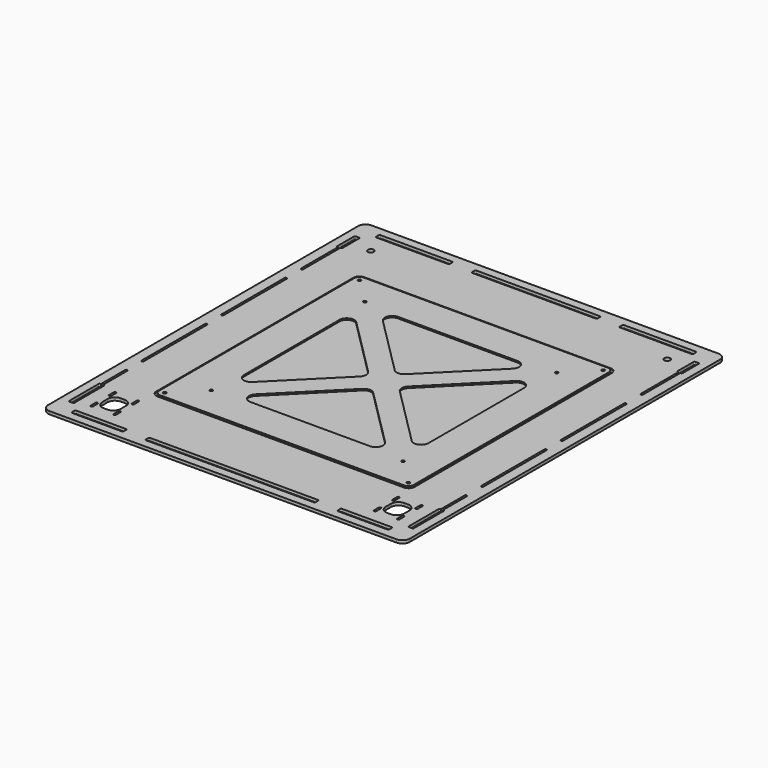
from build123d import *

# Parameters (mm, degrees)
F0_R     = 4
F1_DEPTH = 4
F0_R_2   = 2
F2_DEPTH = 3
F3_R     = 2
F4_DEPTH = 5


with BuildPart() as f1:
    # F0 (on Top) → F1 (new body)
    with BuildSketch(Plane.XY):
        with BuildLine():
            ThreePointArc((-235, 272.5), (-242.071068, 269.571068), (-245, 262.5))
            Line((-245, 262.5), (-245, -262.5))
            ThreePointArc((-245, -262.5), (-242.071068, -269.571068), (-235, -272.5))
            Line((-235, -272.5), (235, -272.5))
            ThreePointArc((235, -272.5), (242.071068, -269.571068), (245, -262.5))
            Line((245, -262.5), (245, 262.5))
            ThreePointArc((245, 262.5), (242.071068, 269.571068), (235, 272.5))
            Line((235, 272.5), (-235, 272.5))
        make_face()
        with BuildLine():
            Line((-209, -235.5), (-209, -227.5))
            ThreePointArc((-209, -227.5), (-208.56066, -226.43934), (-207.5, -226))
            Line((-207.5, -226), (-207.4, -226))
            ThreePointArc((-207.4, -226), (-206.33934, -226.43934), (-205.9, -227.5))
            Line((-205.9, -227.5), (-205.9, -235.5))
            ThreePointArc((-205.9, -235.5), (-206.33934, -236.56066), (-207.4, -237))
            Line((-207.4, -237), (-207.5, -237))
            ThreePointArc((-207.5, -237), (-208.56066, -236.56066), (-209, -235.5))
        make_face(mode=Mode.SUBTRACT)
        with BuildLine():
            ThreePointArc((-189.5, -202.5), (-182.428932, -205.428932), (-179.5, -212.5))
            Line((-179.5, -212.5), (-179.5, -221.5))
            ThreePointArc((-179.5, -221.5), (-182.428932, -228.571068), (-189.5, -231.5))
            Line((-189.5, -231.5), (-194.5, -231.5))
            ThreePointArc((-194.5, -231.5), (-201.571068, -228.571068), (-204.5, -221.5))
            Line((-204.5, -221.5), (-204.5, -212.5))
            ThreePointArc((-204.5, -212.5), (-201.571068, -205.428932), (-194.5, -202.5))
            Line((-194.5, -202.5), (-189.5, -202.5))
        make_face(mode=Mode.SUBTRACT)
        with BuildLine():
            Line((-146.5, -261), (-213.5, -261))
            ThreePointArc((-213.5, -261), (-214.56066, -260.56066), (-215, -259.5))
            Line((-215, -259.5), (-215, -255.5))
            ThreePointArc((-215, -255.5), (-214.56066, -254.43934), (-213.5, -254))
            Line((-213.5, -254), (-146.5, -254))
            ThreePointArc((-146.5, -254), (-145.43934, -254.43934), (-145, -255.5))
            Line((-145, -255.5), (-145, -259.5))
            ThreePointArc((-145, -259.5), (-145.43934, -260.56066), (-146.5, -261))
        make_face(mode=Mode.SUBTRACT)
        with BuildLine():
            Line((-178, -235.5), (-178, -227.5))
            ThreePointArc((-178, -227.5), (-177.56066, -226.43934), (-176.5, -226))
            Line((-176.5, -226), (-176.4, -226))
            ThreePointArc((-176.4, -226), (-175.33934, -226.43934), (-174.9, -227.5))
            Line((-174.9, -227.5), (-174.9, -235.5))
            ThreePointArc((-174.9, -235.5), (-175.33934, -236.56066), (-176.4, -237))
            Line((-176.4, -237), (-176.5, -237))
            ThreePointArc((-176.5, -237), (-177.56066, -236.56066), (-178, -235.5))
        make_face(mode=Mode.SUBTRACT)
        with BuildLine():
            Line((-233.5, -241), (-233.5, -191.645098))
            ThreePointArc((-233.5, -191.645098), (-233.06066, -190.584438), (-232, -190.145098))
            Line((-232, -190.145098), (-231.5, -190.145098))
            Line((-231.5, -190.145098), (-231.5, -149))
            ThreePointArc((-231.5, -149), (-231.06066, -147.93934), (-230, -147.5))
            ThreePointArc((-230, -147.5), (-228.93934, -147.93934), (-228.5, -149))
            Line((-228.5, -149), (-228.5, -190.145098))
            Line((-228.5, -190.145098), (-228, -190.145098))
            ThreePointArc((-228, -190.145098), (-226.93934, -190.584438), (-226.5, -191.645098))
            Line((-226.5, -191.645098), (-226.5, -241))
            ThreePointArc((-226.5, -241), (-226.93934, -242.06066), (-228, -242.5))
            Line((-228, -242.5), (-232, -242.5))
            ThreePointArc((-232, -242.5), (-233.06066, -242.06066), (-233.5, -241))
        make_face(mode=Mode.SUBTRACT)
        with BuildLine():
            ThreePointArc((-207.4, -195), (-206.33934, -195.43934), (-205.9, -196.5))
            Line((-205.9, -196.5), (-205.9, -204.5))
            ThreePointArc((-205.9, -204.5), (-206.33934, -205.56066), (-207.4, -206))
            Line((-207.4, -206), (-207.5, -206))
            ThreePointArc((-207.5, -206), (-208.56066, -205.56066), (-209, -204.5))
            Line((-209, -204.5), (-209, -196.5))
            ThreePointArc((-209, -196.5), (-208.56066, -195.43934), (-207.5, -195))
            Line((-207.5, -195), (-207.4, -195))
        make_face(mode=Mode.SUBTRACT)
        with BuildLine():
            ThreePointArc((-176.4, -195), (-175.33934, -195.43934), (-174.9, -196.5))
            Line((-174.9, -196.5), (-174.9, -204.5))
            ThreePointArc((-174.9, -204.5), (-175.33934, -205.56066), (-176.4, -206))
            Line((-176.4, -206), (-176.5, -206))
            ThreePointArc((-176.5, -206), (-177.56066, -205.56066), (-178, -204.5))
            Line((-178, -204.5), (-178, -196.5))
            ThreePointArc((-178, -196.5), (-177.56066, -195.43934), (-176.5, -195))
            Line((-176.5, -195), (-176.4, -195))
        make_face(mode=Mode.SUBTRACT)
        with BuildLine():
            ThreePointArc((-230, -12.5), (-228.93934, -12.93934), (-228.5, -14))
            Line((-228.5, -14), (-228.5, -121))
            ThreePointArc((-228.5, -121), (-228.93934, -122.06066), (-230, -122.5))
            ThreePointArc((-230, -122.5), (-231.06066, -122.06066), (-231.5, -121))
            Line((-231.5, -121), (-231.5, -14))
            ThreePointArc((-231.5, -14), (-231.06066, -12.93934), (-230, -12.5))
        make_face(mode=Mode.SUBTRACT)
        with BuildLine():
            ThreePointArc((113.5, -254), (114.56066, -254.43934), (115, -255.5))
            Line((115, -255.5), (115, -259.5))
            ThreePointArc((115, -259.5), (114.56066, -260.56066), (113.5, -261))
            Line((113.5, -261), (-113.5, -261))
            ThreePointArc((-113.5, -261), (-114.56066, -260.56066), (-115, -259.5))
            Line((-115, -259.5), (-115, -255.5))
            ThreePointArc((-115, -255.5), (-114.56066, -254.43934), (-113.5, -254))
            Line((-113.5, -254), (113.5, -254))
        make_face(mode=Mode.SUBTRACT)
        with BuildLine():
            ThreePointArc((145, -255.5), (145.43934, -254.43934), (146.5, -254))
            Line((146.5, -254), (213.5, -254))
            ThreePointArc((213.5, -254), (214.56066, -254.43934), (215, -255.5))
            Line((215, -255.5), (215, -259.5))
            ThreePointArc((215, -259.5), (214.56066, -260.56066), (213.5, -261))
            Line((213.5, -261), (146.5, -261))
            ThreePointArc((146.5, -261), (145.43934, -260.56066), (145, -259.5))
            Line((145, -259.5), (145, -255.5))
        make_face(mode=Mode.SUBTRACT)
        with BuildLine():
            ThreePointArc((176.5, -226), (177.56066, -226.43934), (178, -227.5))
            Line((178, -227.5), (178, -235.5))
            ThreePointArc((178, -235.5), (177.56066, -236.56066), (176.5, -237))
            Line((176.5, -237), (176.4, -237))
            ThreePointArc((176.4, -237), (175.33934, -236.56066), (174.9, -235.5))
            Line((174.9, -235.5), (174.9, -227.5))
            ThreePointArc((174.9, -227.5), (175.33934, -226.43934), (176.4, -226))
            Line((176.4, -226), (176.5, -226))
        make_face(mode=Mode.SUBTRACT)
        with BuildLine():
            Line((207.5, -236.570228), (207.4, -236.570228))
            ThreePointArc((207.4, -236.570228), (206.33934, -236.130888), (205.9, -235.070228))
            Line((205.9, -235.070228), (205.9, -227.070228))
            ThreePointArc((205.9, -227.070228), (206.33934, -226.009568), (207.4, -225.570228))
            Line((207.4, -225.570228), (207.5, -225.570228))
            ThreePointArc((207.5, -225.570228), (208.56066, -226.009568), (209, -227.070228))
            Line((209, -227.070228), (209, -235.070228))
            ThreePointArc((209, -235.070228), (208.56066, -236.130888), (207.5, -236.570228))
        make_face(mode=Mode.SUBTRACT)
        with BuildLine():
            ThreePointArc((194.5, -202.5), (201.571068, -205.428932), (204.5, -212.5))
            Line((204.5, -212.5), (204.5, -221.5))
            ThreePointArc((204.5, -221.5), (201.571068, -228.571068), (194.5, -231.5))
            Line((194.5, -231.5), (189.5, -231.5))
            ThreePointArc((189.5, -231.5), (182.428932, -228.571068), (179.5, -221.5))
            Line((179.5, -221.5), (179.5, -212.5))
            ThreePointArc((179.5, -212.5), (182.428932, -205.428932), (189.5, -202.5))
            Line((189.5, -202.5), (194.5, -202.5))
        make_face(mode=Mode.SUBTRACT)
        with BuildLine():
            Line((176.5, -206), (176.4, -206))
            ThreePointArc((176.4, -206), (175.33934, -205.56066), (174.9, -204.5))
            Line((174.9, -204.5), (174.9, -196.5))
            ThreePointArc((174.9, -196.5), (175.33934, -195.43934), (176.4, -195))
            Line((176.4, -195), (176.5, -195))
            ThreePointArc((176.5, -195), (177.56066, -195.43934), (178, -196.5))
            Line((178, -196.5), (178, -204.5))
            ThreePointArc((178, -204.5), (177.56066, -205.56066), (176.5, -206))
        make_face(mode=Mode.SUBTRACT)
        with BuildLine():
            ThreePointArc((207.5, -194.570228), (208.56066, -195.009568), (209, -196.070228))
            Line((209, -196.070228), (209, -204.070228))
            ThreePointArc((209, -204.070228), (208.56066, -205.130888), (207.5, -205.570228))
            Line((207.5, -205.570228), (207.4, -205.570228))
            ThreePointArc((207.4, -205.570228), (206.33934, -205.130888), (205.9, -204.070228))
            Line((205.9, -204.070228), (205.9, -196.070228))
            ThreePointArc((205.9, -196.070228), (206.33934, -195.009568), (207.4, -194.570228))
            Line((207.4, -194.570228), (207.5, -194.570228))
        make_face(mode=Mode.SUBTRACT)
        with BuildLine():
            Line((228, -189.14666), (228.5, -189.14666))
            Line((228.5, -189.14666), (228.5, -149))
            ThreePointArc((228.5, -149), (228.93934, -147.93934), (230, -147.5))
            ThreePointArc((230, -147.5), (231.06066, -147.93934), (231.5, -149))
            Line((231.5, -149), (231.5, -189.14666))
            Line((231.5, -189.14666), (232, -189.14666))
            ThreePointArc((232, -189.14666), (233.06066, -189.586), (233.5, -190.64666))
            Line((233.5, -190.64666), (233.5, -241))
            ThreePointArc((233.5, -241), (233.06066, -242.06066), (232, -242.5))
            Line((232, -242.5), (228, -242.5))
            ThreePointArc((228, -242.5), (226.93934, -242.06066), (226.5, -241))
            Line((226.5, -241), (226.5, -190.64666))
            ThreePointArc((226.5, -190.64666), (226.93934, -189.586), (228, -189.14666))
        make_face(mode=Mode.SUBTRACT)
        with BuildLine():
            ThreePointArc((231.5, -121), (231.06066, -122.06066), (230, -122.5))
            ThreePointArc((230, -122.5), (228.93934, -122.06066), (228.5, -121))
            Line((228.5, -121), (228.5, -14))
            ThreePointArc((228.5, -14), (228.93934, -12.93934), (230, -12.5))
            ThreePointArc((230, -12.5), (231.06066, -12.93934), (231.5, -14))
            Line((231.5, -14), (231.5, -121))
        make_face(mode=Mode.SUBTRACT)
        with BuildLine():
            ThreePointArc((-231.5, 121), (-231.06066, 122.06066), (-230, 122.5))
            ThreePointArc((-230, 122.5), (-228.93934, 122.06066), (-228.5, 121))
            Line((-228.5, 121), (-228.5, 14))
            ThreePointArc((-228.5, 14), (-228.93934, 12.93934), (-230, 12.5))
            ThreePointArc((-230, 12.5), (-231.06066, 12.93934), (-231.5, 14))
            Line((-231.5, 14), (-231.5, 121))
        make_face(mode=Mode.SUBTRACT)
        with BuildLine():
            ThreePointArc((-228, 242.5), (-226.93934, 242.06066), (-226.5, 241))
            Line((-226.5, 241), (-226.5, 212.974575))
            ThreePointArc((-226.5, 212.974575), (-226.93934, 211.913915), (-228, 211.474575))
            Line((-228, 211.474575), (-228.5, 211.474575))
            Line((-228.5, 211.474575), (-228.5, 149))
            ThreePointArc((-228.5, 149), (-228.93934, 147.93934), (-230, 147.5))
            ThreePointArc((-230, 147.5), (-231.06066, 147.93934), (-231.5, 149))
            Line((-231.5, 149), (-231.5, 211.474575))
            Line((-231.5, 211.474575), (-232, 211.474575))
            ThreePointArc((-232, 211.474575), (-233.06066, 211.913915), (-233.5, 212.974575))
            Line((-233.5, 212.974575), (-233.5, 241))
            ThreePointArc((-233.5, 241), (-233.06066, 242.06066), (-232, 242.5))
            Line((-232, 242.5), (-228, 242.5))
        make_face(mode=Mode.SUBTRACT)
        with Locations((-199, 226.5)):
            Circle(F0_R, mode=Mode.SUBTRACT)
        with BuildLine():
            ThreePointArc((-116.5, 261), (-115.43934, 260.56066), (-115, 259.5))
            Line((-115, 259.5), (-115, 255.5))
            ThreePointArc((-115, 255.5), (-115.43934, 254.43934), (-116.5, 254))
            Line((-116.5, 254), (-213.5, 254))
            ThreePointArc((-213.5, 254), (-214.56066, 254.43934), (-215, 255.5))
            Line((-215, 255.5), (-215, 259.5))
            ThreePointArc((-215, 259.5), (-214.56066, 260.56066), (-213.5, 261))
            Line((-213.5, 261), (-116.5, 261))
        make_face(mode=Mode.SUBTRACT)
        with BuildLine():
            ThreePointArc((167, 175), (172.656854, 172.656854), (175, 167))
            Line((175, 167), (175, 13.215897))
            Line((175, 13.215897), (175, 8.215897))
            Line((175, 8.215897), (175, -167))
            ThreePointArc((175, -167), (172.656854, -172.656854), (167, -175))
            Line((167, -175), (-167, -175))
            ThreePointArc((-167, -175), (-172.656854, -172.656854), (-175, -167))
            Line((-175, -167), (-175, 2.454963))
            Line((-175, 2.454963), (-175, 7.454963))
            Line((-175, 7.454963), (-175, 167))
            ThreePointArc((-175, 167), (-172.656854, 172.656854), (-167, 175))
            Line((-167, 175), (167, 175))
        make_face(mode=Mode.SUBTRACT)
        with BuildLine():
            ThreePointArc((230, 122.5), (231.06066, 122.06066), (231.5, 121))
            Line((231.5, 121), (231.5, 14))
            ThreePointArc((231.5, 14), (231.06066, 12.93934), (230, 12.5))
            ThreePointArc((230, 12.5), (228.93934, 12.93934), (228.5, 14))
            Line((228.5, 14), (228.5, 121))
            ThreePointArc((228.5, 121), (228.93934, 122.06066), (230, 122.5))
        make_face(mode=Mode.SUBTRACT)
        with BuildLine():
            ThreePointArc((-85, 259.5), (-84.56066, 260.56066), (-83.5, 261))
            Line((-83.5, 261), (83.537632, 261))
            ThreePointArc((83.537632, 261), (84.598292, 260.56066), (85.037632, 259.5))
            Line((85.037632, 259.5), (85.037632, 255.5))
            ThreePointArc((85.037632, 255.5), (84.598292, 254.43934), (83.537632, 254))
            Line((83.537632, 254), (-83.5, 254))
            ThreePointArc((-83.5, 254), (-84.56066, 254.43934), (-85, 255.5))
            Line((-85, 255.5), (-85, 259.5))
        make_face(mode=Mode.SUBTRACT)
        with BuildLine():
            ThreePointArc((231.5, 149), (231.06066, 147.93934), (230, 147.5))
            ThreePointArc((230, 147.5), (228.93934, 147.93934), (228.5, 149))
            Line((228.5, 149), (228.5, 212.51864))
            Line((228.5, 212.51864), (228, 212.51864))
            ThreePointArc((228, 212.51864), (226.93934, 212.95798), (226.5, 214.01864))
            Line((226.5, 214.01864), (226.5, 241))
            ThreePointArc((226.5, 241), (226.93934, 242.06066), (228, 242.5))
            Line((228, 242.5), (232, 242.5))
            ThreePointArc((232, 242.5), (233.06066, 242.06066), (233.5, 241))
            Line((233.5, 241), (233.5, 214.01864))
            ThreePointArc((233.5, 214.01864), (233.06066, 212.95798), (232, 212.51864))
            Line((232, 212.51864), (231.5, 212.51864))
            Line((231.5, 212.51864), (231.5, 149))
        make_face(mode=Mode.SUBTRACT)
        with BuildLine():
            Line((213.537632, 254), (116.537632, 254))
            ThreePointArc((116.537632, 254), (115.476972, 254.43934), (115.037632, 255.5))
            Line((115.037632, 255.5), (115.037632, 259.5))
            ThreePointArc((115.037632, 259.5), (115.476972, 260.56066), (116.537632, 261))
            Line((116.537632, 261), (213.537632, 261))
            ThreePointArc((213.537632, 261), (214.598292, 260.56066), (215.037632, 259.5))
            Line((215.037632, 259.5), (215.037632, 255.5))
            ThreePointArc((215.037632, 255.5), (214.598292, 254.43934), (213.537632, 254))
        make_face(mode=Mode.SUBTRACT)
        with Locations((201, 228.5)):
            Circle(F0_R, mode=Mode.SUBTRACT)
    extrude(amount=F1_DEPTH)


with BuildPart() as f2:
    # F0 (on Top) → F2 (new body)
    with BuildSketch(Plane.XY):
        with BuildLine():
            Line((175, 13.215897), (175, 167))
            ThreePointArc((175, 167), (172.656854, 172.656854), (167, 175))
            Line((167, 175), (-167, 175))
            ThreePointArc((-167, 175), (-172.656854, 172.656854), (-175, 167))
            Line((-175, 167), (-175, 7.454963))
            Line((-175, 7.454963), (-175, 2.454963))
            Line((-175, 2.454963), (-175, -167))
            ThreePointArc((-175, -167), (-172.656854, -172.656854), (-167, -175))
            Line((-167, -175), (167, -175))
            ThreePointArc((167, -175), (172.656854, -172.656854), (175, -167))
            Line((175, -167), (175, 8.215897))
            Line((175, 8.215897), (175, 13.215897))
        make_face()
        with Locations((-165, -165)):
            Circle(F0_R_2, mode=Mode.SUBTRACT)
        with Locations((165, -165)):
            Circle(F0_R_2, mode=Mode.SUBTRACT)
        with Locations((-165, 165)):
            Circle(F0_R_2, mode=Mode.SUBTRACT)
        with Locations((165, 165)):
            Circle(F0_R_2, mode=Mode.SUBTRACT)
    extrude(amount=F2_DEPTH)


with BuildPart() as f4:
    # F3 (on Top) → F4 (new body)
    with BuildSketch(Plane.XY):
        with BuildLine():
            Line((172.477187, -164.998419), (172.477187, 165.001581))
            ThreePointArc((172.477187, 165.001581), (170.271084, 170.314269), (164.950614, 172.501534))
            Line((164.950614, 172.501534), (-165.022812, 172.501581))
            ThreePointArc((-165.022812, 172.501581), (-170.326114, 170.304883), (-172.522813, 165.001581))
            Line((-172.522813, 165.001581), (-172.522813, -164.998419))
            ThreePointArc((-172.522813, -164.998419), (-170.326114, -170.301719), (-165.022813, -172.498419))
            Line((-165.022813, -172.498419), (164.977187, -172.498419))
            ThreePointArc((164.977187, -172.498419), (170.280487, -170.301719), (172.477187, -164.998419))
        make_face()
        with Locations((-165.022813, -164.998419)):
            Circle(F3_R, mode=Mode.SUBTRACT)
        with Locations((-130.022813, -129.998419)):
            Circle(F3_R, mode=Mode.SUBTRACT)
        with BuildLine():
            Line((80.835051, -124.998419), (-80.880678, -124.998419))
            ThreePointArc((-80.880678, -124.998419), (-90.119473, -118.825253), (-87.951746, -107.927351))
            Line((-87.951746, -107.927351), (-7.093881, -27.069486))
            ThreePointArc((-7.093881, -27.069486), (-0.022813, -24.140554), (7.048254, -27.069486))
            Line((7.048254, -27.069486), (87.906119, -107.927351))
            ThreePointArc((87.906119, -107.927351), (90.073846, -118.825253), (80.835051, -124.998419))
        make_face(mode=Mode.SUBTRACT)
        with BuildLine():
            Line((-125.022813, -80.856283), (-125.022813, 80.859446))
            ThreePointArc((-125.022813, 80.859446), (-118.849648, 90.098241), (-107.951746, 87.930514))
            Line((-107.951746, 87.930514), (-27.093881, 7.072649))
            ThreePointArc((-27.093881, 7.072649), (-24.164949, 0.001581), (-27.093881, -7.069486))
            Line((-27.093881, -7.069486), (-107.951746, -87.927351))
            ThreePointArc((-107.951746, -87.927351), (-118.849648, -90.095078), (-125.022813, -80.856283))
        make_face(mode=Mode.SUBTRACT)
        with Locations((164.977187, -164.998419)):
            Circle(F3_R, mode=Mode.SUBTRACT)
        with Locations((129.977187, -129.998419)):
            Circle(F3_R, mode=Mode.SUBTRACT)
        with BuildLine():
            ThreePointArc((-87.951746, 107.930514), (-90.119473, 118.828416), (-80.880678, 125.001581))
            Line((-80.880678, 125.001581), (80.835051, 125.001581))
            ThreePointArc((80.835051, 125.001581), (90.073846, 118.828416), (87.906119, 107.930514))
            Line((87.906119, 107.930514), (7.048254, 27.072649))
            ThreePointArc((7.048254, 27.072649), (-0.022813, 24.143717), (-7.093881, 27.072649))
            Line((-7.093881, 27.072649), (-87.951746, 107.930514))
        make_face(mode=Mode.SUBTRACT)
        with Locations((-130.022813, 130.001581)):
            Circle(F3_R, mode=Mode.SUBTRACT)
        with Locations((-165.022813, 165.001581)):
            Circle(F3_R, mode=Mode.SUBTRACT)
        with BuildLine():
            ThreePointArc((107.906119, 87.930514), (118.804021, 90.098241), (124.977187, 80.859446))
            Line((124.977187, 80.859446), (124.977187, -80.856283))
            ThreePointArc((124.977187, -80.856283), (118.804021, -90.095078), (107.906119, -87.927351))
            Line((107.906119, -87.927351), (27.048254, -7.069486))
            ThreePointArc((27.048254, -7.069486), (24.119322, 0.001581), (27.048254, 7.072649))
            Line((27.048254, 7.072649), (107.906119, 87.930514))
        make_face(mode=Mode.SUBTRACT)
        with Locations((129.977187, 130.001581)):
            Circle(F3_R, mode=Mode.SUBTRACT)
        with Locations((164.977187, 165.001581)):
            Circle(F3_R, mode=Mode.SUBTRACT)
    extrude(amount=F4_DEPTH)


solid = Compound([f1.part, f2.part, f4.part])
